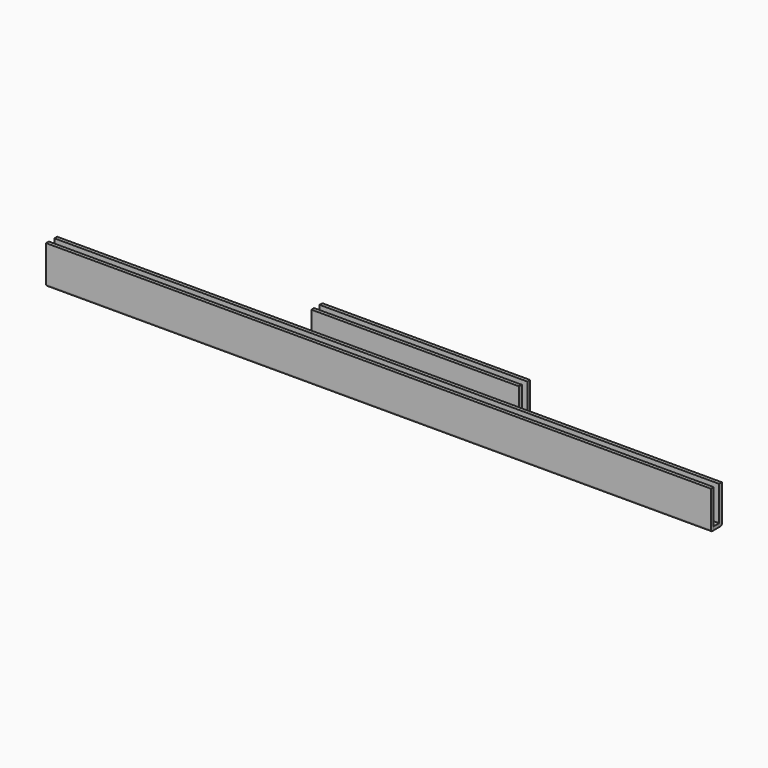
from build123d import *

# Parameters (mm, degrees)
F0_W     = 60
F0_H     = 4
F1_DEPTH = 1
F2_W     = 60
F2_H     = 1
F3_DEPTH = 10
F4_R     = 0.5
F5_W     = 192
F5_H     = 1
F6_DEPTH = 11
F5_H_2   = 2
F7_DEPTH = 1
F8_R     = 0.5


with BuildPart() as f1:
    # F0 (on Top) → F1 (new body)
    with BuildSketch(Plane.XY):
        Rectangle(F0_W, F0_H)
    extrude(amount=F1_DEPTH)

    # F2 (on face) → F3 (join)
    with BuildSketch(Plane.XY.offset(1)):
        with Locations((0, 1.5)):
            Rectangle(F2_W, F2_H)
        with Locations((0, -1.5)):
            Rectangle(F2_W, F2_H)
    extrude(amount=F3_DEPTH)

    # F4
    f4_edges = [f1.edges().sort_by_distance(p)[0] for p in [
        (0, -2, 0),
        (0, 2, 0),
    ]]
    fillet(f4_edges, radius=F4_R)


with BuildPart() as f6:
    # F5 (on Top) → F6 (new body)
    with BuildSketch(Plane.XY):
        with Locations((-1, -10.5)):
            Rectangle(F5_W, F5_H)
        with Locations((-1, -13.5)):
            Rectangle(F5_W, F5_H)
    extrude(amount=F6_DEPTH)

    # F8
    f8_edges = [f6.edges().sort_by_distance(p)[0] for p in [
        (-1, -14, 0),
        (-1, -10, 0),
    ]]
    fillet(f8_edges, radius=F8_R)


with BuildPart() as f7:
    # F5 (on Top) → F7 (new body)
    with BuildSketch(Plane.XY):
        with Locations((-1, -12)):
            Rectangle(F5_W, F5_H_2)
    extrude(amount=F7_DEPTH)


solid = Compound([f1.part, f6.part, f7.part])
